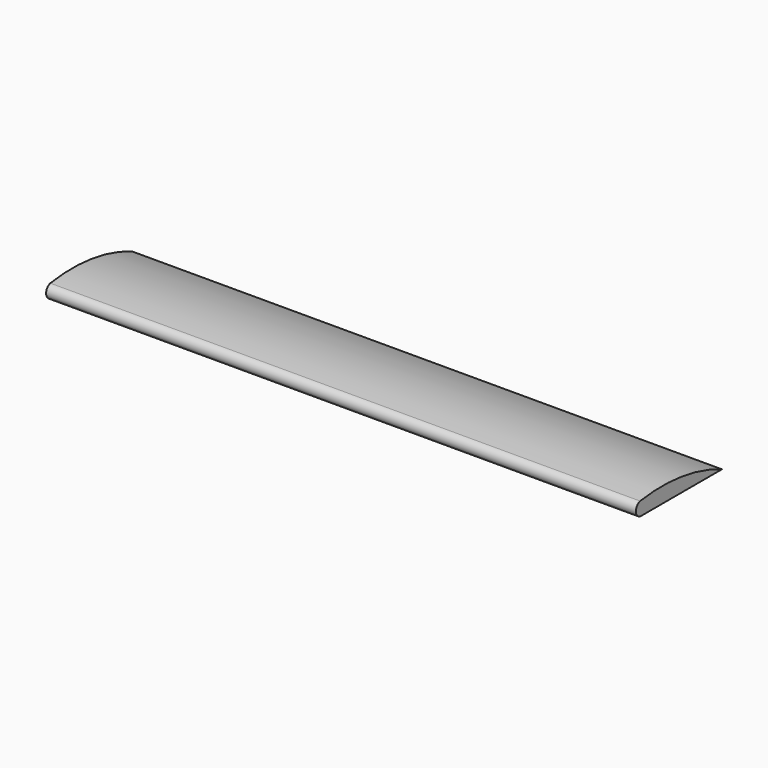
from build123d import *

# Parameters (mm, degrees)
F1_DEPTH = 228.346


with BuildPart() as f1:
    # F0 (on Right) → F1 (new body)
    with BuildSketch(Plane.YZ):
        with BuildLine():
            ThreePointArc((39.600093, 0), (20.170274, 5.41716), (0, 5.263816))
            ThreePointArc((0, 5.263816), (-2.026837, 2.631908), (0, 0))
            Line((0, 0), (39.600093, 0))
        make_face()
    extrude(amount=F1_DEPTH)


solid = f1.part
